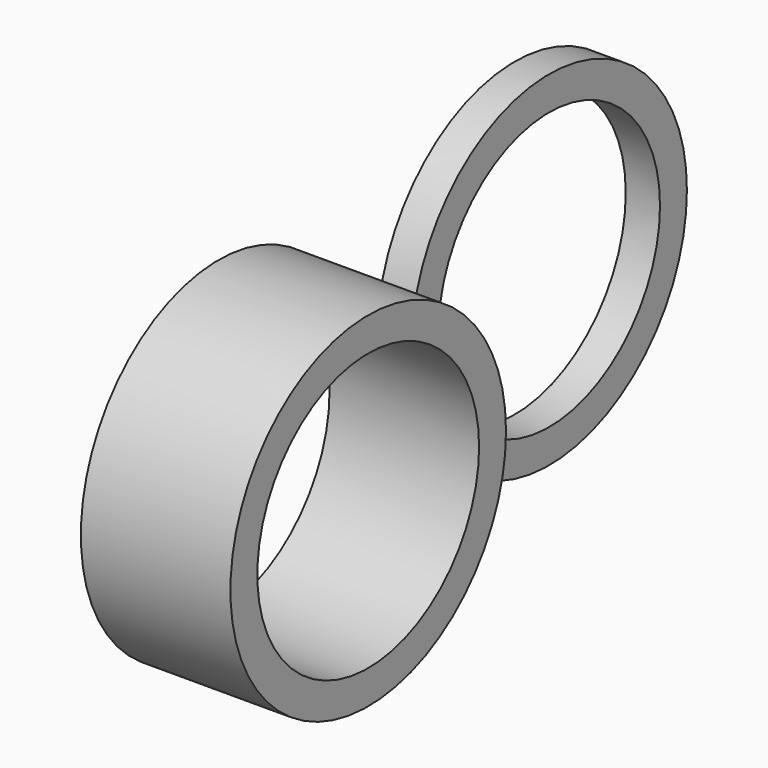
from build123d import *

# Parameters (mm, degrees)
F0_R     = 15.086
F0_R_2   = 12.139067
F1_DEPTH = 3
F2_R     = 15.086
F2_R_2   = 12.139067
F3_DEPTH = 13.1


with BuildPart() as f1:
    # F0 (on Right) → F1 (new body)
    with BuildSketch(Plane.YZ):
        with Locations((-30.122953, 34.569673)):
            Circle(F0_R)
        with Locations((-30.122953, 34.569673)):
            Circle(F0_R_2, mode=Mode.SUBTRACT)
    extrude(amount=F1_DEPTH)


with BuildPart() as f3:
    # F2 (on Right) → F3 (new body)
    with BuildSketch(Plane.YZ):
        with Locations((-62.554508, 32.453578)):
            Circle(F2_R)
        with Locations((-62.554508, 32.453578)):
            Circle(F2_R_2, mode=Mode.SUBTRACT)
    extrude(amount=F3_DEPTH)


solid = Compound([f1.part, f3.part])
